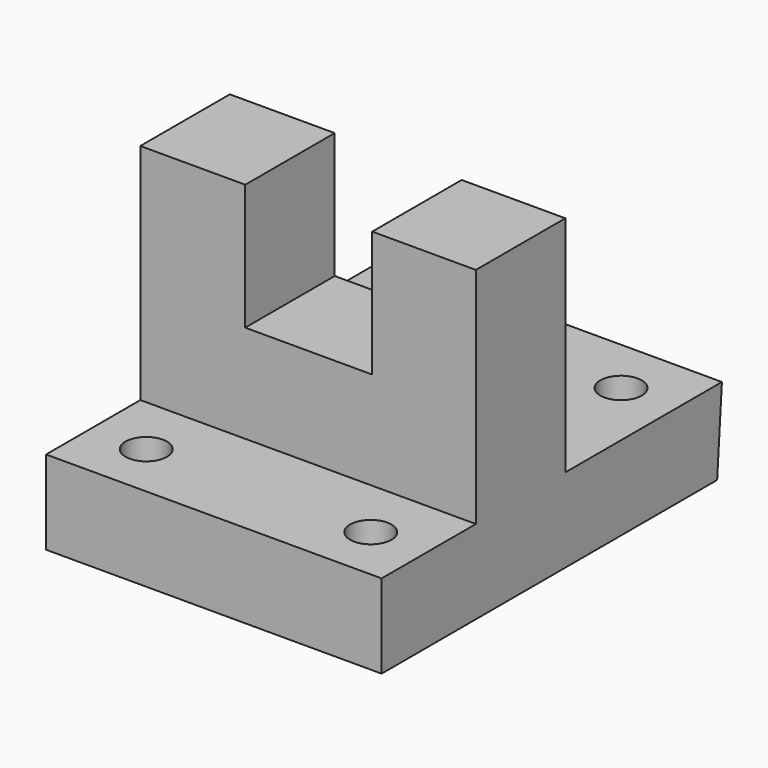
from build123d import *

# Parameters (mm, degrees)
F1_DEPTH = 25.4
F3_DEPTH = 38.1
F5_D     = 9.398


with BuildPart() as f1:
    # F0 (on Front) → F1 (new body)
    with BuildSketch(Plane.XZ):
        Polygon((-38.1, 0), (38.1, 0), (38.1, 69.85), (14.5568246901, 69.85), (14.5568246901, 41.275), (-14.2748, 41.275), (-14.2748, 69.85), (-38.1, 69.85), align=None)
    extrude(amount=F1_DEPTH)

    # F2 (on Right) → F3 (join, symmetric)
    with BuildSketch(Plane.YZ):
        Polygon((-52.1549474458, 0), (0, 0), (43.0950525542, 0), (44.45, 19.05), (0, 19.05), (-52.1549474458, 19.05), align=None)
    extrude(amount=F3_DEPTH, both=True)

    # F5 (through all)
    with Locations(Plane(origin=(0, 0, 0), x_dir=(1, 0, 0), z_dir=(0, 0, -1))):
        with Locations((-25.4933413446, 39.4742776036), (25.4933413446, 39.4742776036), (25.5620578019, -31.4856089659), (-25.5620578019, -31.4856089659)):
            Hole(F5_D / 2)


solid = f1.part
